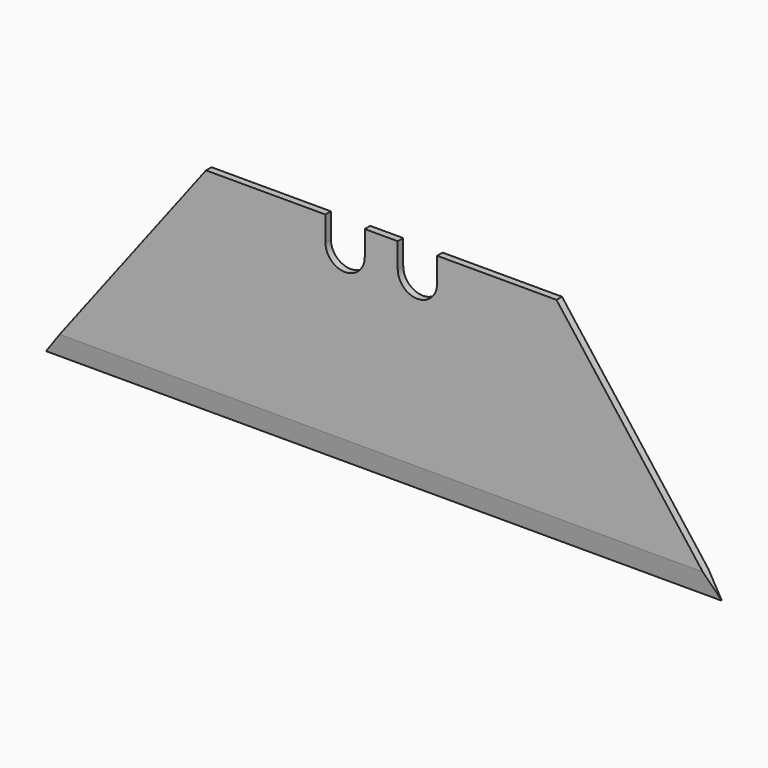
from build123d import *

# Parameters (mm, degrees)
F1_DEPTH = 0.6096
F3_DEPTH = 60.001


with BuildPart() as f1:
    # F0 (on Front) → F1 (new body)
    with BuildSketch(Plane.XZ):
        with BuildLine():
            Line((-60, -18.9484), (0, -18.9484))
            Line((0, -18.9484), (-14.4425, 0))
            Line((-14.4425, 0), (-25.04319, 0))
            Line((-25.04319, 0), (-25.04319, -2.19075))
            ThreePointArc((-25.04319, -2.19075), (-26.78944, -3.937), (-28.53569, -2.19075))
            Line((-28.53569, -2.19075), (-28.53569, 0))
            Line((-28.53569, 0), (-31.46431, 0))
            Line((-31.46431, 0), (-31.46431, -2.19075))
            ThreePointArc((-31.46431, -2.19075), (-33.21056, -3.937), (-34.95681, -2.19075))
            Line((-34.95681, -2.19075), (-34.95681, 0))
            Line((-34.95681, 0), (-45.5575, 0))
            Line((-45.5575, 0), (-60, -18.9484))
        make_face()
    extrude(amount=F1_DEPTH)

    # F2 (on Right) → F3 (cut, through all)
    with BuildSketch(Plane.YZ):
        Polygon((0, -17.0434), (-0.3048, -18.9484), (0, -18.9484), align=None)
        Polygon((-0.3048, -18.9484), (-0.6096, -17.0434), (-0.6096, -18.9484), align=None)
    extrude(amount=-F3_DEPTH, mode=Mode.SUBTRACT)


solid = f1.part
